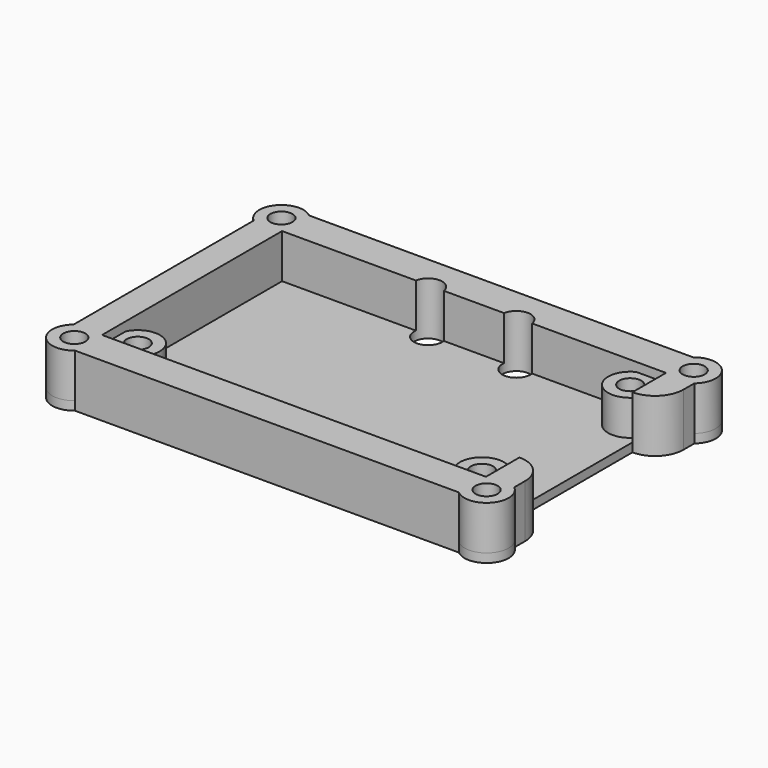
from build123d import *

# Parameters (mm, degrees)
SKETCH_R                   = 2.5
SKETCH_W                   = 87
SKETCH_H                   = 51
PAD_DEPTH                  = 10
POCKET_DEPTH               = 10.001
PAD001_DEPTH               = 2
SKETCH003_R                = 2.5
PAD002_DEPTH               = 8
SKETCH003_MIRRORED001_2_R  = 2.5
PAD002_MIRRORED001_2_DEPTH = 8
SKETCH004_R                = 3.2
POCKET001_DEPTH            = 12.001
POCKET004_DEPTH            = 8


with BuildPart() as part:
    # Sketch → Pad (new body)
    with BuildSketch(Plane.XY):
        with BuildLine():
            Line((-43.499999, 33.160444), (43.499999, 33.160444))
            ThreePointArc((49.927876, 25.500001), (50.544139, 32.544145), (43.499999, 33.160444))
            Line((49.927876, 25.500001), (49.927876, -25.500001))
            ThreePointArc((43.499999, -33.160444), (50.544159, -32.544162), (49.927876, -25.500001))
            Line((43.499999, -33.160444), (-43.499999, -33.160444))
            ThreePointArc((-49.927876, -25.500001), (-50.544159, -32.544162), (-43.499999, -33.160444))
            Line((-49.927876, -25.500001), (-49.927876, 25.500001))
            ThreePointArc((-43.499999, 33.160444), (-50.544159, 32.544162), (-49.927876, 25.500001))
        make_face()
        with Locations((-46.713937, 29.330223)):
            Circle(SKETCH_R, mode=Mode.SUBTRACT)
        with Locations((46.713917, 29.330206)):
            Circle(SKETCH_R, mode=Mode.SUBTRACT)
        with Locations((46.713937, -29.330223)):
            Circle(SKETCH_R, mode=Mode.SUBTRACT)
        with Locations((-46.713937, -29.330223)):
            Circle(SKETCH_R, mode=Mode.SUBTRACT)
        Rectangle(SKETCH_W, SKETCH_H, mode=Mode.SUBTRACT)
    extrude(amount=PAD_DEPTH)

    # Sketch001 (on Face18 of Pad) → Pocket (cut, through all)
    with BuildSketch(Plane.XY.offset(10)):
        with BuildLine():
            ThreePointArc((43.5, 16), (48.045195, 17.882681), (49.927876, 22.427876))
            Line((49.927876, 22.427876), (49.927876, -22.427876))
            ThreePointArc((49.927876, -22.427876), (48.045195, -17.882681), (43.5, -16))
            Line((43.5, 16), (43.5, -16))
        make_face()
    extrude(amount=-POCKET_DEPTH, mode=Mode.SUBTRACT)

    # Sketch002 (on Face4 of Pocket) → Pad001 (join)
    with BuildSketch(Plane(origin=(0, 0, 0), x_dir=(1, 0, 0), z_dir=(0, 0, -1))):
        with BuildLine():
            ThreePointArc((-43.499999, 33.160444), (-50.544168, 32.544169), (-49.927876, 25.500001))
            Line((-49.927876, 0), (-49.927876, 25.500001))
            Line((43.5, 0), (-49.927876, 0))
            Line((43.5, 16), (43.5, 0))
            ThreePointArc((43.5, 16), (48.045195, 17.882681), (49.927876, 22.427876))
            Line((49.927876, 25.500001), (49.927876, 22.427876))
            ThreePointArc((49.927876, 25.500001), (50.544166, 32.544167), (43.499999, 33.160444))
            Line((-43.499999, 33.160444), (43.499999, 33.160444))
        make_face()
    pad001 = extrude(amount=PAD001_DEPTH)

    # Mirrored: Pad001 across XZ
    add(pad001.mirror(Plane.XZ))

    # Sketch003 (on Face31 of Mirrored) → Pad002 (join)
    with BuildSketch(Plane.XY):
        with BuildLine():
            Line((36.820551, 25.5), (43.5, 25.5))
            Line((43.5, 25.5), (43.5, 18.820551))
            ThreePointArc((36.820551, 25.5), (35.464466, 17.464466), (43.5, 18.820551))
        make_face()
        with Locations((39, 21)):
            Circle(SKETCH003_R, mode=Mode.SUBTRACT)
    pad002 = extrude(amount=PAD002_DEPTH)

    # Sketch003 Mirrored001 2 → Pad002 Mirrored001 2 (add)
    with BuildSketch(Plane(origin=(0, 0, 0), x_dir=(-1, 0, 0), z_dir=(0, 0, -1))):
        with BuildLine():
            Line((36.820551, 25.5), (43.5, 25.5))
            Line((43.5, 25.5), (43.5, 18.820551))
            ThreePointArc((36.820551, 25.5), (35.464466, 17.464466), (43.5, 18.820551))
        make_face()
        with Locations((39, 21)):
            Circle(SKETCH003_MIRRORED001_2_R, mode=Mode.SUBTRACT)
    pad002_mirrored001_2 = extrude(amount=-PAD002_MIRRORED001_2_DEPTH)

    # Mirrored002: Pad002, Pad002 Mirrored001 2 across Sketch003 H_Axis
    add(pad002.mirror(Plane.ZX))
    add(pad002_mirrored001_2.mirror(Plane.ZX))

    # Sketch004 (on Face8 of MultiTransform) → Pocket001 (cut, through all)
    with BuildSketch(Plane(origin=(0, 0, -2), x_dir=(1, 0, 0), z_dir=(0, 0, -1))):
        with Locations((-10, -25)):
            Circle(SKETCH004_R)
        with Locations((10, -25)):
            Circle(SKETCH004_R)
    extrude(amount=-POCKET001_DEPTH, mode=Mode.SUBTRACT)

    # Sketch011 (on Face36 of Pocket001) → Pocket004 (cut)
    with BuildSketch(Plane.XY.offset(8)):
        with BuildLine():
            Line((-36.820551, 25.5), (-43.5, 25.5))
            Line((-43.5, 25.5), (-43.5, 18.820551))
            ThreePointArc((-43.5, 18.820551), (-35.464466, 17.464466), (-36.820551, 25.5))
        make_face()
    extrude(amount=-POCKET004_DEPTH, mode=Mode.SUBTRACT)


with BuildPart() as part_1:
    # Body placement: moved
    add(part.part.moved(Location((0, 0, -8))))


solid = part_1.part
